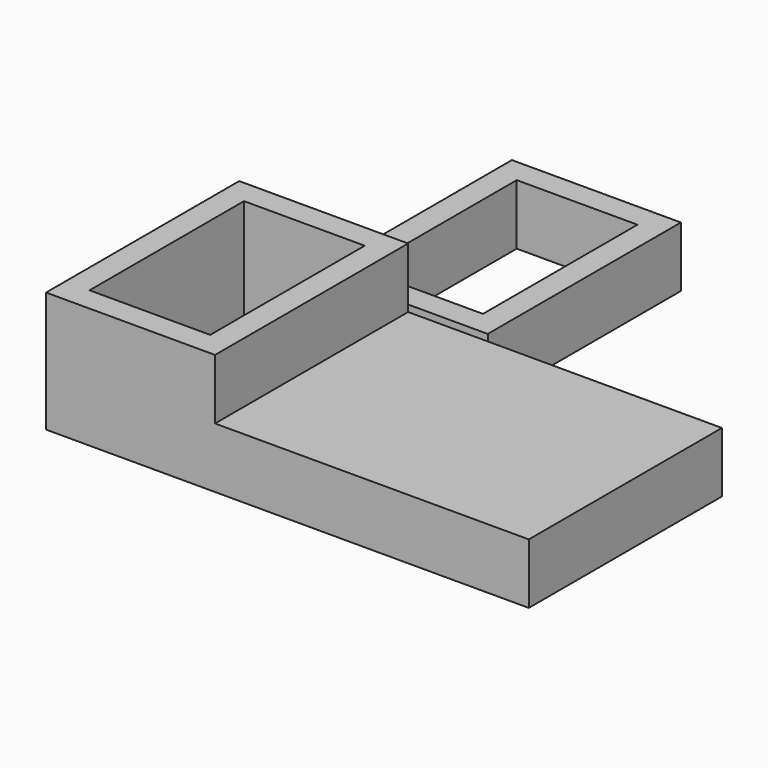
from build123d import *

# Parameters (mm, degrees)
F2_W     = 14
F2_H     = 20
F2_W_2   = 10
F2_H_2   = 16
F3_DEPTH = 5
F0_W     = 40
F0_H     = 20
F0_W_2   = 10
F0_H_2   = 16
F4_DEPTH = 5
F5_W     = 14
F5_H     = 20
F5_W_2   = 10
F5_H_2   = 16
F6_DEPTH = 5


with BuildPart() as f3:
    # F2 (on offset) → F3 (new body)
    with BuildSketch(Plane.XY.offset(-5)):
        with Locations((6.941266, 38.321781)):
            Rectangle(F2_W, F2_H)
        with Locations((6.941266, 38.321781)):
            Rectangle(F2_W_2, F2_H_2, mode=Mode.SUBTRACT)
    extrude(amount=F3_DEPTH)


with BuildPart() as f4:
    # F0 (on Top) → F4 (new body)
    with BuildSketch(Plane.XY):
        with Locations((20, 10)):
            Rectangle(F0_W, F0_H)
        with Locations((7, 10)):
            Rectangle(F0_W_2, F0_H_2, mode=Mode.SUBTRACT)
    extrude(amount=F4_DEPTH)

    # F5 (on face) → F6 (join)
    with BuildSketch(Plane.XY.offset(5)):
        with Locations((7, 10)):
            Rectangle(F5_W, F5_H)
        with Locations((7, 10)):
            Rectangle(F5_W_2, F5_H_2, mode=Mode.SUBTRACT)
    extrude(amount=F6_DEPTH)


solid = Compound([f3.part, f4.part])
